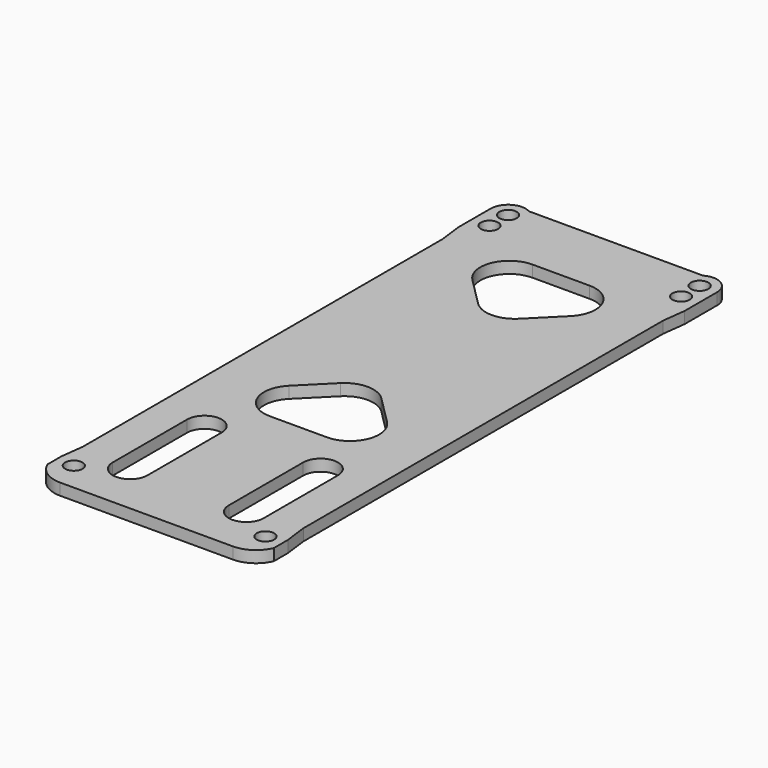
from build123d import *

# Parameters (mm, degrees)
PAD_DEPTH    = 2
SKETCH001_R  = 1.5
POCKET_DEPTH = 2.001


with BuildPart() as part:
    # Sketch → Pad (new body)
    with BuildSketch(Plane.XY):
        with BuildLine():
            Line((-14.886358, -61), (14.886358, -61))
            ThreePointArc((14.886358, -61), (17.657976, -60.161506), (19.5, -57.927254))
            Line((19.5, -54.927254), (19.5, -57.927254))
            Line((19, -50.958627), (19.5, -54.927254))
            Line((19, 26.531373), (19, -50.958627))
            Line((19, 26.531373), (19.5, 30.5))
            Line((19.5, 30.5), (19.5, 37.5))
            ThreePointArc((19.5, 37.5), (18, 40.098076), (15, 40.098076))
            Line((-15, 40.098076), (15, 40.098076))
            ThreePointArc((-15, 40.098076), (-18, 40.098076), (-19.5, 37.5))
            Line((-19.5, 30.5), (-19.5, 37.5))
            Line((-19, 26.531373), (-19.5, 30.5))
            Line((-19, 26.531373), (-19, -50.958627))
            Line((-19, -50.958627), (-19.5, -54.927254))
            Line((-19.5, -54.927254), (-19.5, -57.927254))
            ThreePointArc((-19.5, -57.927254), (-17.657976, -60.161506), (-14.886358, -61))
        make_face()
        with BuildLine():
            ThreePointArc((-7, -36), (-10, -33), (-13, -36))
            Line((-13, -36), (-13, -52))
            ThreePointArc((-13, -52), (-10, -55), (-7, -52))
            Line((-7, -36), (-7, -52))
        make_face(mode=Mode.SUBTRACT)
        with BuildLine():
            ThreePointArc((13, -36), (10, -33), (7, -36))
            Line((7, -36), (7, -52))
            ThreePointArc((7, -52), (10, -55), (13, -52))
            Line((13, -36), (13, -52))
        make_face(mode=Mode.SUBTRACT)
        with BuildLine():
            Line((-8.450534, 19.749437), (-3.535534, 14.834437))
            ThreePointArc((-3.535534, 14.834437), (0, 13.369971), (3.535534, 14.834437))
            Line((3.535534, 14.834437), (8.450534, 19.749437))
            ThreePointArc((8.450534, 19.749437), (9.534398, 25.198388), (4.915, 28.284971))
            Line((4.915, 28.284971), (-4.915, 28.284971))
            ThreePointArc((-4.915, 28.284971), (-9.534398, 25.198388), (-8.450534, 19.749437))
        make_face(mode=Mode.SUBTRACT)
        with BuildLine():
            Line((3.535534, -14.834437), (8.450534, -19.749437))
            ThreePointArc((4.915, -28.284971), (9.534398, -25.198388), (8.450534, -19.749437))
            Line((4.915, -28.284971), (-4.915, -28.284971))
            ThreePointArc((-8.450534, -19.749437), (-9.534398, -25.198388), (-4.915, -28.284971))
            Line((-8.450534, -19.749437), (-3.535534, -14.834437))
            ThreePointArc((3.535534, -14.834437), (0, -13.369971), (-3.535534, -14.834437))
        make_face(mode=Mode.SUBTRACT)
    extrude(amount=PAD_DEPTH)

    # Sketch001 → Pocket (cut, through all)
    with BuildSketch(Plane.XY.offset(2)):
        with Locations((-16.5, 33.5)):
            Circle(SKETCH001_R)
        with Locations((16.5, 33.5)):
            Circle(SKETCH001_R)
        with Locations((16.5, -56)):
            Circle(SKETCH001_R)
        with Locations((-16.5, -56)):
            Circle(SKETCH001_R)
        with Locations((16.5, 37.5)):
            Circle(SKETCH001_R)
        with Locations((-16.5, 37.5)):
            Circle(SKETCH001_R)
    extrude(amount=-POCKET_DEPTH, mode=Mode.SUBTRACT)


solid = part.part
